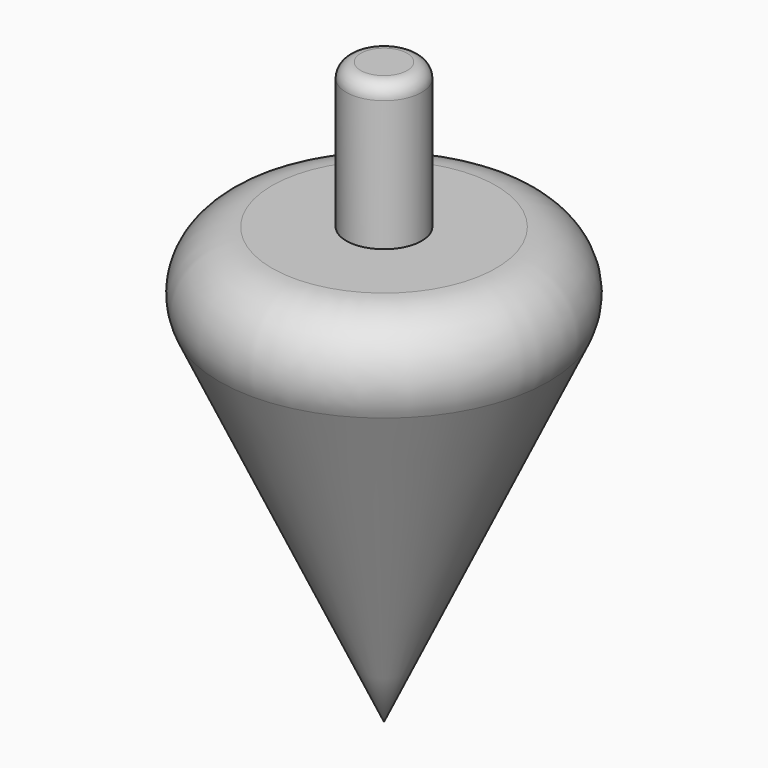
from build123d import *

# Parameters (mm, degrees)
F0_W = 3.302
F0_H = 12.7
F2_R = 5.08
F3_R = 1.27


with BuildPart() as f1:
    # F0 (on Front) → F1 (revolve)
    with BuildSketch(Plane.XZ):
        Polygon((-3.302, 0), (-17.766322, 0), (0, -38.1), (0, 0), align=None)
        with Locations((-1.651, 6.35)):
            Rectangle(F0_W, F0_H)
    revolve(axis=Axis((0, 0, -19.05), (0, 0, -1)))

    # F2
    f2_edges = [f1.edges().sort_by_distance(p)[0] for p in [
        (17.766322, 0, 0),
    ]]
    fillet(f2_edges, radius=F2_R)

    # F3
    f3_edges = [f1.edges().sort_by_distance(p)[0] for p in [
        (3.302, 0, 12.7),
    ]]
    fillet(f3_edges, radius=F3_R)


solid = f1.part
